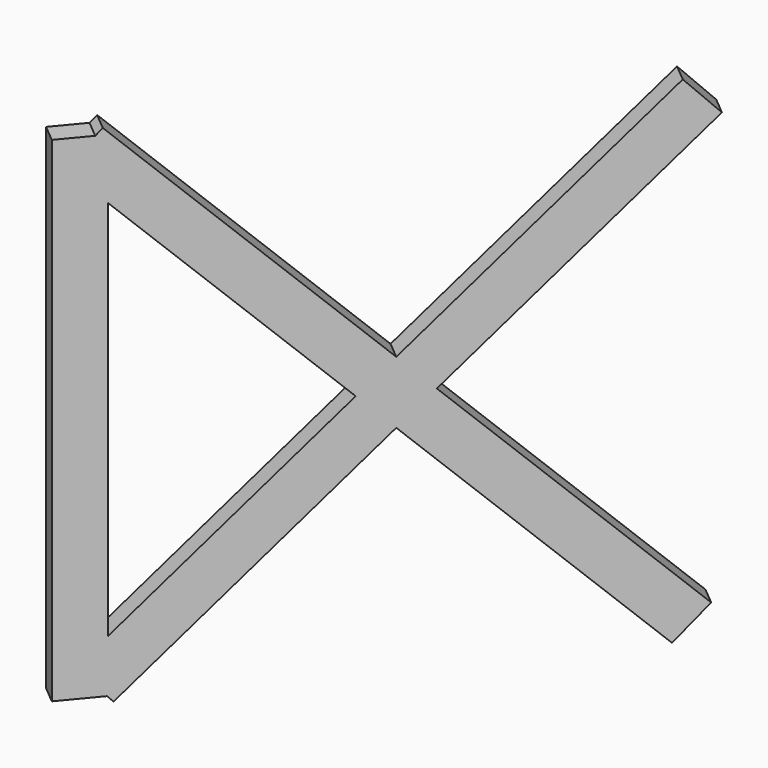
from build123d import *

# Parameters (mm, degrees)
BOX238_W                  = 0.5
BOX238_H                  = 1
BOX238_DEPTH              = 15
BOX238_ROLL_ANGLE         = 46
BOX239_W                  = 0.5
BOX239_H                  = 1
BOX239_DEPTH              = 15
BOX239_ROLL_ANGLE         = -46
BOX237_W                  = 0.5
BOX237_H                  = 1
BOX237_DEPTH              = 11
FUSION022_PLACEMENT_ANGLE = -39.8


with BuildPart() as cubo238:
    # Box238 → Box238 (new body)
    with BuildSketch(Plane.XY):
        with Locations((0.25, 0.5)):
            Rectangle(BOX238_W, BOX238_H)
    extrude(amount=BOX238_DEPTH)


with BuildPart() as cubo238_1:
    # Box238 roll: moved
    add(cubo238.part.rotate(Axis((0, 0, 0), (1, 0, 0)), BOX238_ROLL_ANGLE))


with BuildPart() as cubo238_2:
    # Box238 placement: moved
    add(cubo238_1.part.moved(Location((0, 11, 0.5))))


with BuildPart() as cubo239:
    # Box239 → Box239 (new body)
    with BuildSketch(Plane.XY):
        with Locations((0.25, 0.5)):
            Rectangle(BOX239_W, BOX239_H)
    extrude(amount=BOX239_DEPTH)


with BuildPart() as cubo239_1:
    # Box239 roll: moved
    add(cubo239.part.rotate(Axis((0, 0, 0), (1, 0, 0)), BOX239_ROLL_ANGLE))


with BuildPart() as cubo239_2:
    # Box239 placement: moved
    add(cubo239_1.part.moved(Location((0, 0.4, 1.1))))


with BuildPart() as fusion022:
    # Box237 → Box237 (new body)
    with BuildSketch(Plane.XY.offset(0.5)):
        with Locations((0.25, 0.5)):
            Rectangle(BOX237_W, BOX237_H)
    extrude(amount=BOX237_DEPTH)

    # Fusion022: union Cubo238, Cubo239
    add(cubo238_2.part)
    add(cubo239_2.part)


with BuildPart() as fusion022_1:
    # Fusion022 placement: moved
    add(fusion022.part.moved(Location((-178.9, 150.89, 0))).rotate(Axis((-178.9, 150.89, 0), (0, 0, 1)), FUSION022_PLACEMENT_ANGLE))


solid = fusion022_1.part
